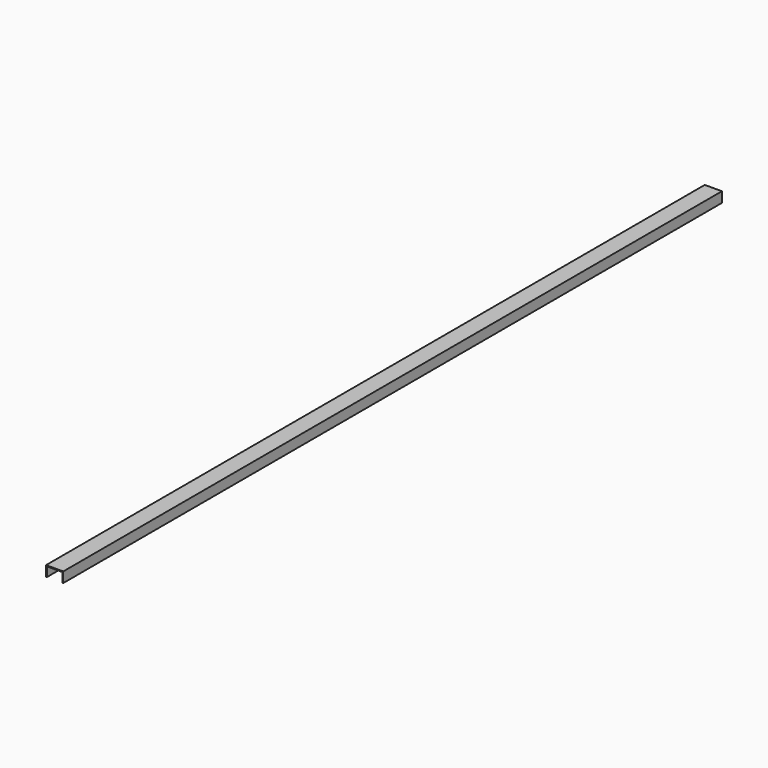
from build123d import *

# Parameters (mm, degrees)
F1_DEPTH = 3048


with BuildPart() as f1:
    # F0 (on Front) → F1 (new body)
    with BuildSketch(Plane.XZ):
        Polygon((31.75, 0), (-31.75, 0), (-31.75, -38.1), (-28.575, -38.1), (-28.575, -3.175), (28.575, -3.175), (28.575, -38.1), (31.75, -38.1), align=None)
        Polygon((31.75, 0), (-31.75, 0), (-31.75, -38.1), (-28.575, -38.1), (-28.575, -3.175), (28.575, -3.175), (28.575, -38.1), (31.75, -38.1), align=None)
    extrude(amount=-F1_DEPTH)


solid = f1.part
